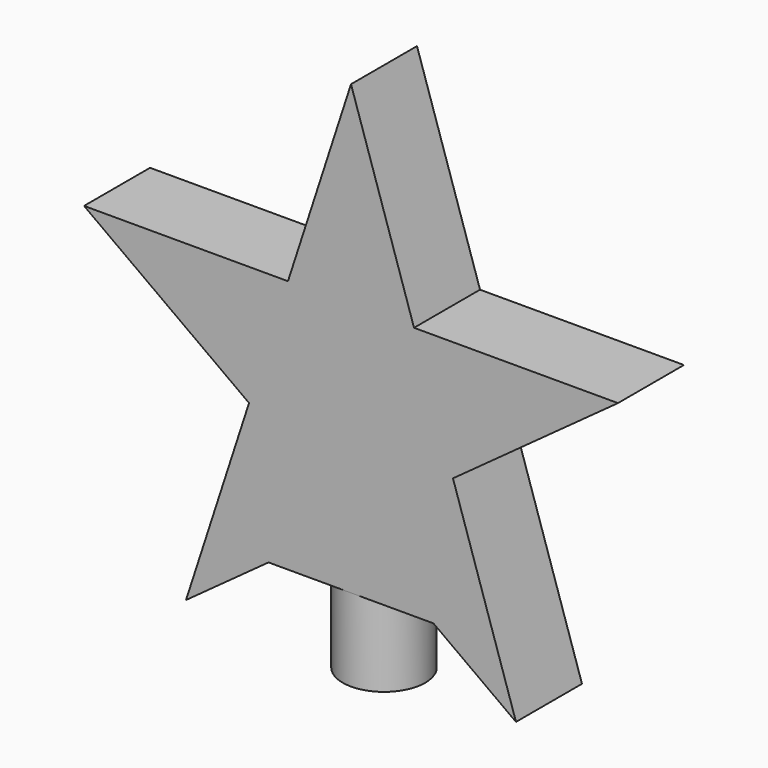
from build123d import *

# Parameters (mm, degrees)
F1_DEPTH = 6.35
F2_R     = 3.175
F3_DEPTH = 6.35


with BuildPart() as f1:
    # F0 (on Front) → F1 (new body)
    with BuildSketch(Plane.XZ):
        Polygon((4.850968, 6.676785), (0, 21.606531), (-4.850968, 6.676785), (-20.549032, 6.676785), (-7.849032, -2.550305), (-12.7, -17.48005), (-6.35, -12.866505), (6.35, -12.866505), (12.7, -17.48005), (7.849032, -2.550305), (20.549032, 6.676785), align=None)
    extrude(amount=F1_DEPTH)

    # F2 (on face) → F3 (join)
    with BuildSketch(Plane(origin=(0, 0, -12.866505), x_dir=(1, 0, 0), z_dir=(0, 0, -1))):
        with Locations((0, 3.175)):
            Circle(F2_R)
    extrude(amount=F3_DEPTH)


solid = f1.part
